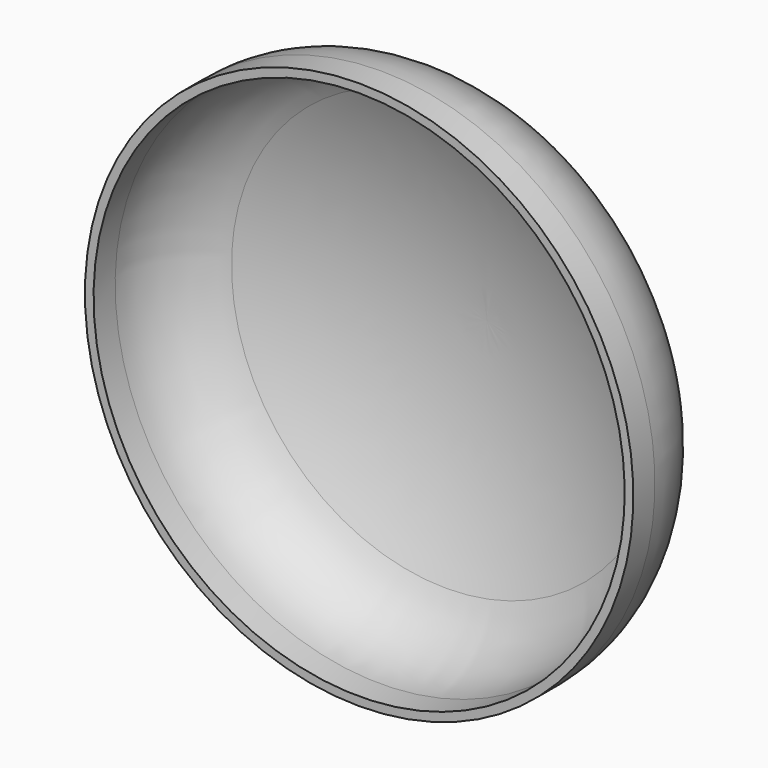
from build123d import *


with BuildPart() as f1:
    # F0 (on Right) → F1 (revolve)
    with BuildSketch(Plane.YZ):
        with BuildLine():
            Line((0, 254), (0, 246))
            Line((0, 246), (25, 246))
            ThreePointArc((25, 246), (69.669665, 233.310855), (100.997683, 199.03333))
            ThreePointArc((100.997683, 199.03333), (136.08116, 102.25258), (147.988043, 0))
            Line((147.988043, 0), (155.988043, 0))
            ThreePointArc((155.988043, 0), (143.867109, 104.090788), (108.152931, 202.611377))
            ThreePointArc((108.152931, 202.611377), (73.875353, 240.11616), (25, 254))
            Line((25, 254), (0, 254))
        make_face()
    revolve(axis=Axis((0, 73.994022, 0), (0, 1, 0)))


solid = f1.part
